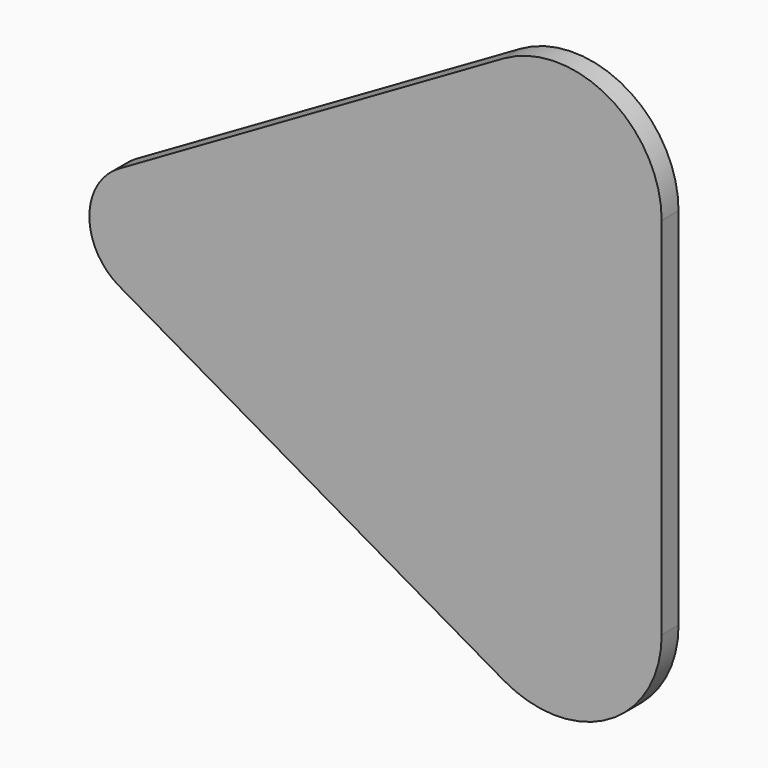
from build123d import *

# Parameters (mm, degrees)
F1_DEPTH = 1


with BuildPart() as f1:
    # F0 (on Front) → F1 (new body)
    with BuildSketch(Plane.XZ):
        with BuildLine():
            Line((10, -8.660254), (10, 8.660254))
            ThreePointArc((10, 8.660254), (7.5, 12.990381), (2.5, 12.990381))
            Line((2.5, 12.990381), (-15.743709, 2.457371))
            ThreePointArc((-15.743709, 2.457371), (-17.162473, 0), (-15.743709, -2.457371))
            Line((-15.743709, -2.457371), (2.5, -12.990381))
            ThreePointArc((2.5, -12.990381), (7.5, -12.990381), (10, -8.660254))
        make_face()
    extrude(amount=F1_DEPTH)


solid = f1.part
